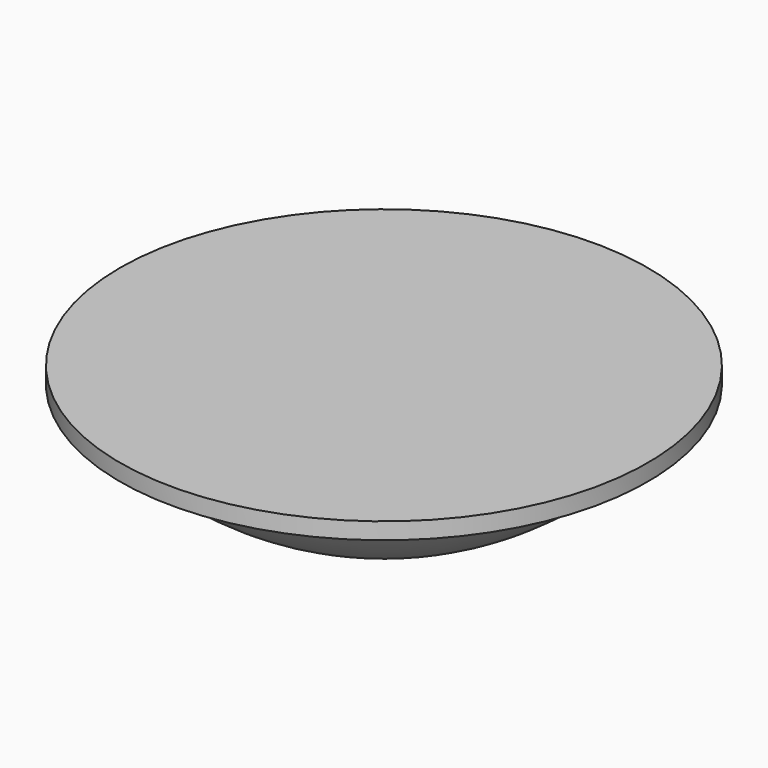
from build123d import *


with BuildPart() as part:
    # Sketch → Revolution (revolve)
    with BuildSketch(Plane.XZ):
        with BuildLine():
            Line((0, 0), (-3.175, 0))
            Line((-3.175, 0), (-3.175, -0.2))
            Line((-3.175, -0.2), (-2.875, -0.2))
            ThreePointArc((-2.875, -0.2), (-1.594524, -1.217133), (0, -1.58))
            Line((0, -1.58), (0, 0))
        make_face()
    revolve(axis=Axis((0, 0, 0), (0, 0, 1)))


solid = part.part
